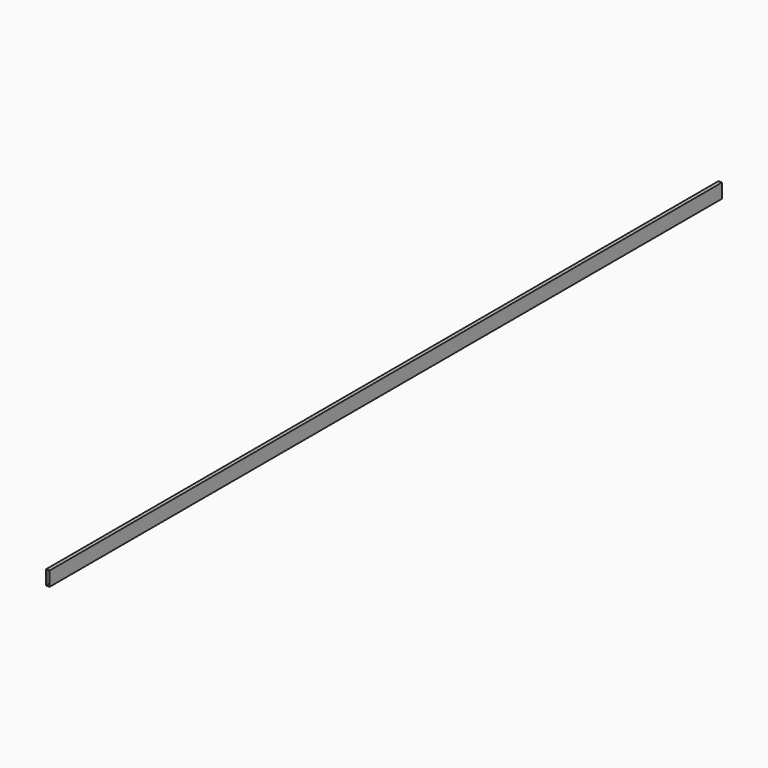
from build123d import *

# Parameters (mm, degrees)
F0_W     = 50.8
F0_H     = 203.2
F0_W_2   = 41.275
F0_H_2   = 193.675
F1_DEPTH = 11887.2


with BuildPart() as f1:
    # F0 (on Front) → F1 (new body)
    with BuildSketch(Plane.XZ):
        with Locations((25.4, 101.6)):
            Rectangle(F0_W, F0_H)
        with Locations((25.4, 101.6)):
            Rectangle(F0_W_2, F0_H_2, mode=Mode.SUBTRACT)
    extrude(amount=-F1_DEPTH)


solid = f1.part
